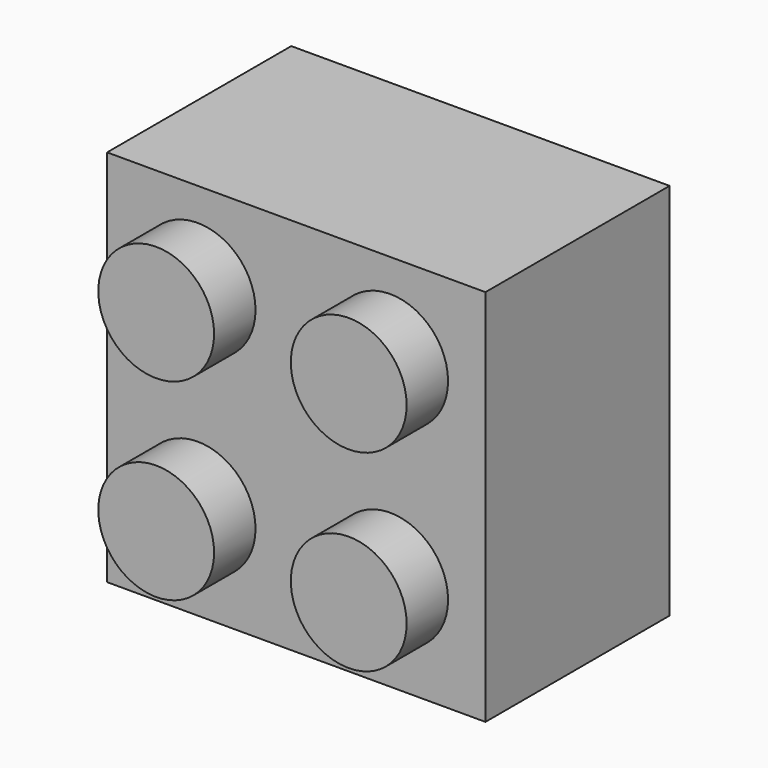
from build123d import *

# Parameters (mm, degrees)
F0_W     = 15.78
F0_H     = 15.78
F0_R     = 2.415
F1_DEPTH = 9.6
F2_DEPTH = 11.76
F3_W     = 13.12
F3_H     = 13.12
F3_R     = 2.415
F3_R_2   = 2.4
F4_DEPTH = 8.38
F3_R_3   = 1.6
F5_DEPTH = 8.38


with BuildPart() as f1:
    # F0 (on Front) → F1 (new body)
    with BuildSketch(Plane.XZ):
        Rectangle(F0_W, F0_H)
        with Locations((-4.115, -3.915)):
            Circle(F0_R, mode=Mode.SUBTRACT)
        with Locations((3.915, -3.915)):
            Circle(F0_R, mode=Mode.SUBTRACT)
        with Locations((-4.115, 4.115)):
            Circle(F0_R, mode=Mode.SUBTRACT)
        with Locations((3.915, 4.115)):
            Circle(F0_R, mode=Mode.SUBTRACT)
    extrude(amount=F1_DEPTH)

    # F0 (on Front) → F2 (join)
    with BuildSketch(Plane.XZ):
        with Locations((-4.115, 4.115)):
            Circle(F0_R)
        with Locations((3.915, 4.115)):
            Circle(F0_R)
        with Locations((-4.115, -3.915)):
            Circle(F0_R)
        with Locations((3.915, -3.915)):
            Circle(F0_R)
    extrude(amount=F2_DEPTH)

    # F3 (on face) → F4 (cut)
    with BuildSketch(Plane.XZ):
        Rectangle(F3_W, F3_H)
        with Locations((-4.115, -3.915)):
            Circle(F3_R, mode=Mode.SUBTRACT)
        with Locations((3.915, -3.915)):
            Circle(F3_R, mode=Mode.SUBTRACT)
        with Locations((-4.115, 4.115)):
            Circle(F3_R, mode=Mode.SUBTRACT)
        Circle(F3_R_2, mode=Mode.SUBTRACT)
        with Locations((3.915, 4.115)):
            Circle(F3_R, mode=Mode.SUBTRACT)
    extrude(amount=F4_DEPTH, mode=Mode.SUBTRACT)

    # F0 (on Front) + F3 (on face) → F5 (cut)
    with BuildSketch(Plane.XZ):
        with Locations((3.915, 4.115)):
            Circle(F0_R)
        with Locations((-4.115, 4.115)):
            Circle(F0_R)
        with Locations((3.915, -3.915)):
            Circle(F0_R)
        with Locations((-4.115, -3.915)):
            Circle(F0_R)
    with BuildSketch(Plane.XZ):
        Circle(F3_R_3)
    extrude(amount=F5_DEPTH, mode=Mode.SUBTRACT)


solid = f1.part
